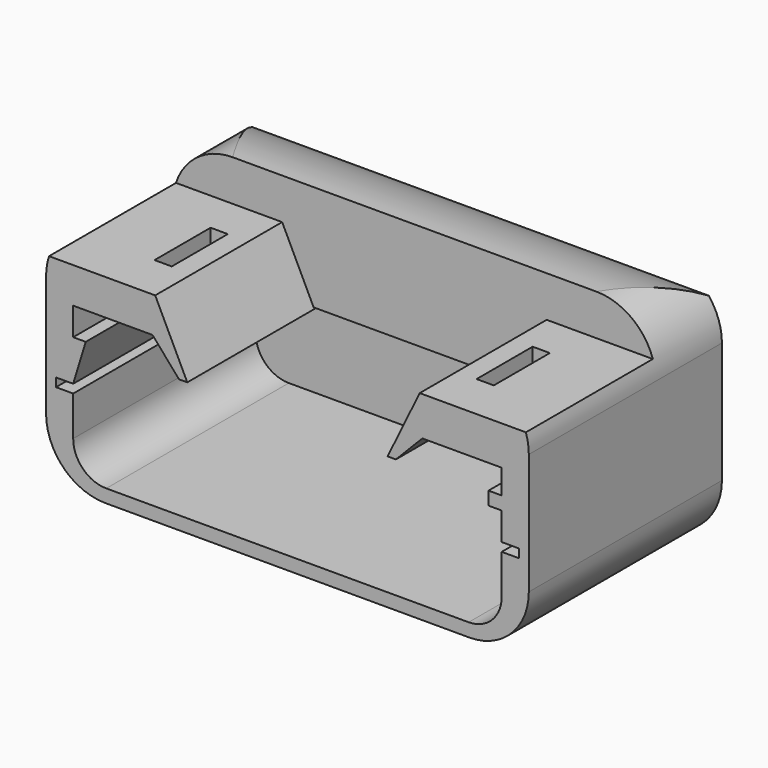
from build123d import *

# Parameters (mm, degrees)
BOX021_W                             = 2.6
BOX021_H                             = 10.6
BOX021_DEPTH                         = 15
BOX020_W                             = 2.6
BOX020_H                             = 10.6
BOX020_DEPTH                         = 15
EXTRUDE056_DEPTH                     = 34.5
EXTRUDE056_ONTO_SKETCH076_ROLL_ANGLE = 90
EXTRUDE055_DEPTH                     = 34.5
EXTRUDE055_ONTO_SKETCH075_ROLL_ANGLE = 90
EXTRUDE057_DEPTH                     = 10.5
EXTRUDE057_ONTO_SKETCH077_ROLL_ANGLE = 90
EXTRUDE060_DEPTH                     = 100
EXTRUDE059_DEPTH                     = 2
EXTRUDE059_ONTO_SKETCH079_ROLL_ANGLE = 90
BOX026_W                             = 80
BOX026_H                             = 28
BOX026_DEPTH                         = 30
EXTRUDE058_DEPTH                     = 35.5
EXTRUDE058_ONTO_SKETCH078_ROLL_ANGLE = 90


with BuildPart() as control_cutout_rec002:
    # Box021 → Box021 (new body)
    with BuildSketch(Plane(origin=(57, 93, 9), x_dir=(1, 0, 0), z_dir=(0, 0, 1))):
        with Locations((1.3, 5.3)):
            Rectangle(BOX021_W, BOX021_H)
    extrude(amount=BOX021_DEPTH)


with BuildPart() as button_cutouts_rec:
    # Box020 → Box020 (new body)
    with BuildSketch(Plane(origin=(8.3, 93, 9), x_dir=(1, 0, 0), z_dir=(0, 0, 1))):
        with Locations((1.3, 5.3)):
            Rectangle(BOX020_W, BOX020_H)
    extrude(amount=BOX020_DEPTH)

    # Fusion034: union control_cutout_rec002
    add(control_cutout_rec002.part)


with BuildPart() as obj1:
    # Sketch076 as drawn → Extrude056 (new)
    with BuildSketch(Plane.XY):
        Polygon((14, 17), (-5.5, 17), (-5.5, 25.6), (73.5, 25.6), (73.5, 17), (54, 17), (49, 6.7), (49, 6.6), (19, 6.6), (19, 6.7), align=None)
    extrude(amount=-EXTRUDE056_DEPTH)


with BuildPart() as obj1_1:
    # Extrude056 onto Sketch076 roll: moved
    add(obj1.part.rotate(Axis((0, 0, 0), (1, 0, 0)), EXTRUDE056_ONTO_SKETCH076_ROLL_ANGLE))


with BuildPart() as obj1_2:
    # Extrude056 onto Sketch076 placement: moved
    add(obj1_1.part.moved(Location((0, 86, 0))))


with BuildPart() as screen_frame001:
    # Sketch075 as drawn → Extrude055 (new)
    with BuildSketch(Plane.XY):
        with BuildLine():
            Line((-2.5, 14.2), (-2.5, 10.6))
            Line((-2.5, 10.6), (1.6, 10.6))
            Line((1.6, 10.6), (1.6, 11.6))
            Line((1.6, 11.6), (13.6, 11.6))
            Line((13.6, 11.6), (17.6, 7))
            Line((17.6, 7), (50.4, 7))
            Line((50.4, 7), (54.4, 11.1))
            Line((54.4, 11.1), (66.4, 11.1))
            Line((66.4, 11.1), (66.4, 10.6))
            Line((66.4, 10.6), (70.5, 10.6))
            Line((70.5, 10.6), (70.5, 14.2))
            ThreePointArc((70.5, 14.2), (67.863961, 20.563961), (61.5, 23.2))
            Line((6.5, 23.2), (61.5, 23.2))
            ThreePointArc((6.5, 23.2), (0.136039, 20.563961), (-2.5, 14.2))
        make_face()
    extrude(amount=-EXTRUDE055_DEPTH)


with BuildPart() as screen_frame001_1:
    # Extrude055 onto Sketch075 roll: moved
    add(screen_frame001.part.rotate(Axis((0, 0, 0), (1, 0, 0)), EXTRUDE055_ONTO_SKETCH075_ROLL_ANGLE))


with BuildPart() as screen_frame001_2:
    # Extrude055 onto Sketch075 placement: moved
    add(screen_frame001_1.part.moved(Location((0, 86, 0))))

    # Cut022: cut obj1
    add(obj1_2.part, mode=Mode.SUBTRACT)


with BuildPart() as cut023:
    # Sketch077 as drawn → Extrude057 (new)
    with BuildSketch(Plane.XY):
        Polygon((13.6, 12.2), (17.6, 7.2), (50.4, 7.2), (54.4, 12.2), align=None)
    extrude(amount=-EXTRUDE057_DEPTH)


with BuildPart() as cut023_1:
    # Extrude057 onto Sketch077 roll: moved
    add(cut023.part.rotate(Axis((0, 0, 0), (1, 0, 0)), EXTRUDE057_ONTO_SKETCH077_ROLL_ANGLE))


with BuildPart() as cut023_2:
    # Extrude057 onto Sketch077 placement: moved
    add(cut023_1.part.moved(Location((0, 110, 0))))

    # Fusion035: union screen_frame001
    add(screen_frame001_2.part)

    # Cut023: cut button_cutouts_rec
    add(button_cutouts_rec.part, mode=Mode.SUBTRACT)


with BuildPart() as round_cut001:
    # Sketch080 → Extrude060 (new body)
    with BuildSketch(Plane.YZ.offset(-14)):
        with BuildLine():
            Line((100, 23.2), (100, 26.2))
            Line((100, 26.2), (138, 26.2))
            Line((138, 26.2), (138, -11.8))
            Line((138, -11.8), (135, -11.8))
            Line((135, -11.8), (135, -1.8))
            ThreePointArc((135, -1.8), (127.67767, 15.87767), (110, 23.2))
            Line((100, 23.2), (110, 23.2))
        make_face()
    extrude(amount=EXTRUDE060_DEPTH)


with BuildPart() as extrude059:
    # Sketch079 as drawn → Extrude059 (new)
    with BuildSketch(Plane.XY):
        with BuildLine():
            Line((-2.5, 14.2), (-2.5, -4.1))
            ThreePointArc((-2.5, -4.1), (0.136039, -10.463961), (6.5, -13.1))
            Line((6.5, -13.1), (61.5, -13.1))
            ThreePointArc((61.5, -13.1), (67.863961, -10.463961), (70.5, -4.1))
            Line((70.5, -4.1), (70.5, 14.2))
            ThreePointArc((70.5, 14.2), (67.863961, 20.563961), (61.5, 23.2))
            Line((6.5, 23.2), (61.5, 23.2))
            ThreePointArc((6.5, 23.2), (0.136039, 20.563961), (-2.5, 14.2))
        make_face()
    extrude(amount=-EXTRUDE059_DEPTH)


with BuildPart() as extrude059_1:
    # Extrude059 onto Sketch079 roll: moved
    add(extrude059.part.rotate(Axis((0, 0, 0), (1, 0, 0)), EXTRUDE059_ONTO_SKETCH079_ROLL_ANGLE))


with BuildPart() as extrude059_2:
    # Extrude059 onto Sketch079 placement: moved
    add(extrude059_1.part.moved(Location((0, 120, 0))))


with BuildPart() as extrude059_3:
    # Extrude059 placement: moved
    add(extrude059_2.part.moved(Location((0, 0.5, 0))))


with BuildPart() as cube007:
    # Box026 → Box026 (new body)
    with BuildSketch(Plane(origin=(-5, 82, 10.6), x_dir=(1, 0, 0), z_dir=(0, 0, 1))):
        with Locations((40, 14)):
            Rectangle(BOX026_W, BOX026_H)
    extrude(amount=BOX026_DEPTH)


with BuildPart() as shell_upper:
    # Sketch078 as drawn → Extrude058 (new)
    with BuildSketch(Plane.XY):
        with BuildLine():
            Line((-2.5, 14.2), (-2.5, -4.1))
            ThreePointArc((-2.5, -4.1), (0.136039, -10.463961), (6.5, -13.1))
            Line((6.5, -13.1), (61.5, -13.1))
            ThreePointArc((61.5, -13.1), (67.863961, -10.463961), (70.5, -4.1))
            Line((70.5, -4.1), (70.5, 14.2))
            ThreePointArc((70.5, 14.2), (67.863961, 20.563961), (61.5, 23.2))
            Line((6.5, 23.2), (61.5, 23.2))
            ThreePointArc((6.5, 23.2), (0.136039, 20.563961), (-2.5, 14.2))
        make_face()
        with BuildLine():
            Line((1.6, 1.2), (-1, 1.2))
            Line((-1, 1.2), (-1, -0.1))
            Line((-1, -0.1), (1.6, -0.1))
            Line((1.6, -0.1), (1.6, -6.1))
            ThreePointArc((1.6, -6.1), (3.064466, -9.635534), (6.6, -11.1))
            Line((6.6, -11.1), (61.4, -11.1))
            ThreePointArc((61.4, -11.1), (64.935534, -9.635534), (66.4, -6.1))
            Line((66.4, -0.1), (66.4, -6.1))
            Line((69, -0.1), (66.4, -0.1))
            Line((69, 1.2), (69, -0.1))
            Line((66.4, 1.2), (69, 1.2))
            Line((66.4, 5.4), (66.4, 1.2))
            Line((64.4, 5.4), (66.4, 5.4))
            Line((64.4, 7.4), (64.4, 5.4))
            Line((66.4, 7.4), (64.4, 7.4))
            Line((66.4, 10.6), (66.4, 7.4))
            Line((66.4, 10.6), (66.4, 10.8))
            Line((66.4, 10.8), (64.5, 10.8))
            Line((64.5, 10.8), (3.5, 10.8))
            Line((1.6, 10.8), (3.5, 10.8))
            Line((1.6, 10.6), (1.6, 10.8))
            Line((1.6, 10.6), (1.6, 7.4))
            Line((1.6, 7.4), (3.5, 7.4))
            Line((3.5, 7.4), (1.6, 1.2))
        make_face(mode=Mode.SUBTRACT)
    extrude(amount=EXTRUDE058_DEPTH)


with BuildPart() as shell_upper_1:
    # Extrude058 onto Sketch078 roll: moved
    add(shell_upper.part.rotate(Axis((0, 0, 0), (1, 0, 0)), EXTRUDE058_ONTO_SKETCH078_ROLL_ANGLE))


with BuildPart() as shell_upper_2:
    # Extrude058 onto Sketch078 placement: moved
    add(shell_upper_1.part.moved(Location((0, 120, 0))))


with BuildPart() as shell_upper_3:
    # Extrude058 placement: moved
    add(shell_upper_2.part.moved(Location((0, 1.5, 0))))

    # Cut024: cut Cube007
    add(cube007.part, mode=Mode.SUBTRACT)

    # Fusion038: union Extrude059
    add(extrude059_3.part)

    # Cut025: cut round_cut001
    add(round_cut001.part, mode=Mode.SUBTRACT)

    # Fusion039: union Cut023
    add(cut023_2.part)


solid = shell_upper_3.part
